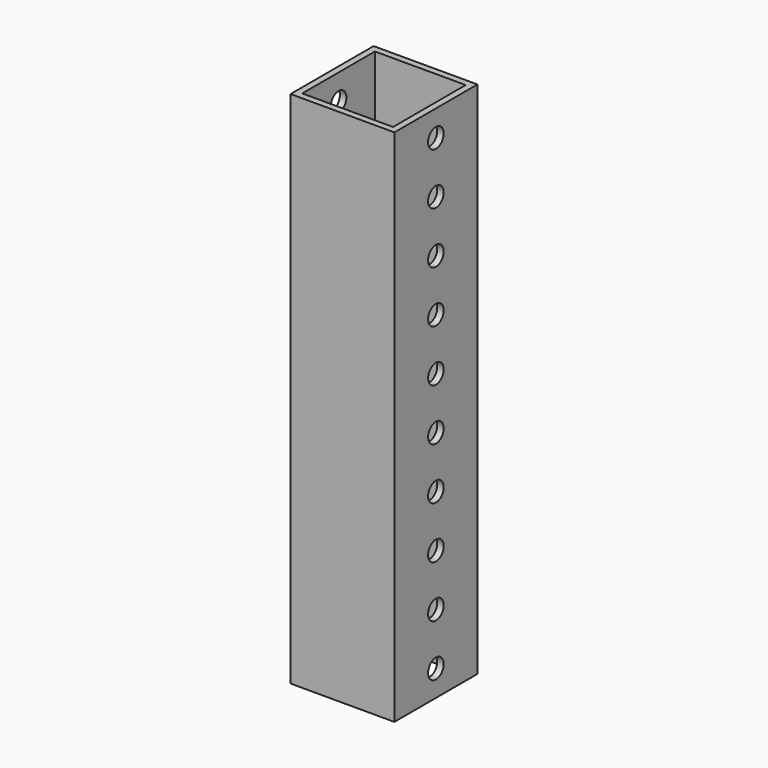
from build123d import *

# Parameters (mm, degrees)
F0_W     = 50.8
F0_H     = 50.8
F1_DEPTH = 254
F2_W     = 44.45
F2_H     = 44.45
F3_DEPTH = 254.001
F4_R     = 4.7625
F5_DEPTH = 50.801


with BuildPart() as f1:
    # F0 (on Top) → F1 (new body)
    with BuildSketch(Plane.XY):
        with Locations((25.4, 25.4)):
            Rectangle(F0_W, F0_H)
    extrude(amount=F1_DEPTH)

    # F2 (on face) → F3 (cut, through all)
    with BuildSketch(Plane.XY.offset(254)):
        with Locations((25.4, 25.4)):
            Rectangle(F2_W, F2_H)
    extrude(amount=-F3_DEPTH, mode=Mode.SUBTRACT)

    # F4 (on face) → F5 (cut, through all)
    with BuildSketch(Plane.YZ.offset(50.8)):
        with Locations((25.4, 12.7)):
            Circle(F4_R)
        with Locations((25.4, 38.1)):
            Circle(F4_R)
        with Locations((25.4, 63.5)):
            Circle(F4_R)
        with Locations((25.4, 88.9)):
            Circle(F4_R)
        with Locations((25.4, 114.3)):
            Circle(F4_R)
        with Locations((25.4, 139.7)):
            Circle(F4_R)
        with Locations((25.4, 165.1)):
            Circle(F4_R)
        with Locations((25.4, 190.5)):
            Circle(F4_R)
        with Locations((25.4, 215.9)):
            Circle(F4_R)
        with Locations((25.4, 241.3)):
            Circle(F4_R)
    extrude(amount=-F5_DEPTH, mode=Mode.SUBTRACT)


solid = f1.part
